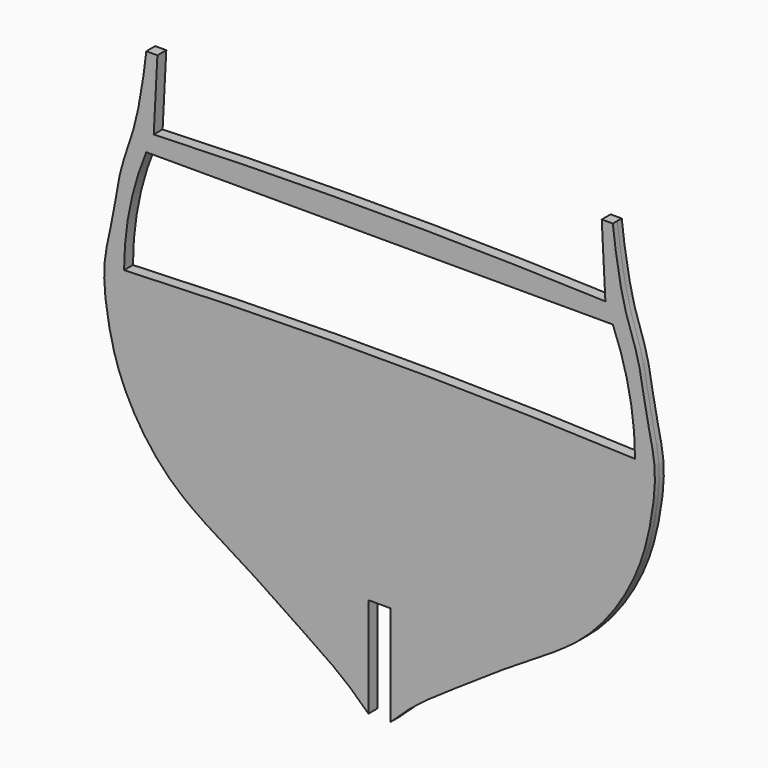
from build123d import *

# Parameters (mm, degrees)
F1_DEPTH = 1.5875


with BuildPart() as f1:
    # F0 (on Front) → F1 (new body, symmetric)
    with BuildSketch(Plane.XZ):
        with BuildLine():
            Line((-3.175, -60.325), (0, -60.325))
            Line((0, -60.325), (3.175, -60.325))
            Line((3.175, -60.325), (3.175, -88.9))
            add(Edge.make_bspline(
                [(3.175, -88.9), (9.525, -82.55), (18.322648614, -76.7998323478), (38.0127026596, -63.1295012035), (57.6411399966, -51.9666121279), (68.6178953906, -38.6133337186), (75.0961100803, -25.6593561366), (78.0321385195, -12.8004713072), (79.3933482148, 0.0952703304), (75.8561506316, 12.5848677159), (74.3657261098, 25.8621448842), (69.5086129865, 36.7272854798), (67.0711320283, 53.5431078659), (67.46875, 50.8), (66.675, 57.15)],
                knots=[0, 0, 0, 0, 0.0978034082, 0.2015942086, 0.305385009, 0.3944921763, 0.4762285798, 0.5547106147, 0.6320875119, 0.7100596598, 0.7880318077, 0.8671551472, 0.9451272951, 1, 1, 1, 1], degree=3))
            Line((66.675, 57.15), (63.5, 57.15))
            Line((63.5, 57.15), (64.5477520151, 36.8829065911))
            ThreePointArc((64.5477520151, 36.8829065911), (0, 38.1), (-64.5477520151, 36.8829065911))
            Line((-64.5477520151, 36.8829065911), (-63.5, 57.15))
            Line((-63.5, 57.15), (-66.675, 57.15))
            add(Edge.make_bspline(
                [(-3.175, -88.9), (-9.525, -82.55), (-18.322648614, -76.7998323478), (-38.0127026596, -63.1295012035), (-57.6411399966, -51.9666121279), (-68.6178953906, -38.6133337186), (-75.0961100803, -25.6593561366), (-78.0321385195, -12.8004713072), (-79.3933482148, 0.0952703304), (-75.8561506316, 12.5848677159), (-74.3657261098, 25.8621448842), (-69.5086129865, 36.7272854798), (-67.0711320283, 53.5431078659), (-67.46875, 50.8), (-66.675, 57.15)],
                knots=[0, 0, 0, 0, 0.0978034082, 0.2015942086, 0.305385009, 0.3944921763, 0.4762285798, 0.5547106147, 0.6320875119, 0.7100596598, 0.7880318077, 0.8671551472, 0.9451272951, 1, 1, 1, 1], degree=3))
            Line((-3.175, -88.9), (-3.175, -60.325))
        make_face()
        with BuildLine():
            Line((-66.675, 31.75), (0, 31.75))
            Line((0, 31.75), (66.675, 31.75))
            ThreePointArc((66.675, 31.75), (71.4066718227, 16.1863343645), (73.025, 0))
            ThreePointArc((73.025, 0), (0, 1.5875), (-73.025, 0))
            ThreePointArc((-73.025, 0), (-71.4066718227, 16.1863343645), (-66.675, 31.75))
        make_face(mode=Mode.SUBTRACT)
    extrude(amount=F1_DEPTH, both=True)


solid = f1.part
